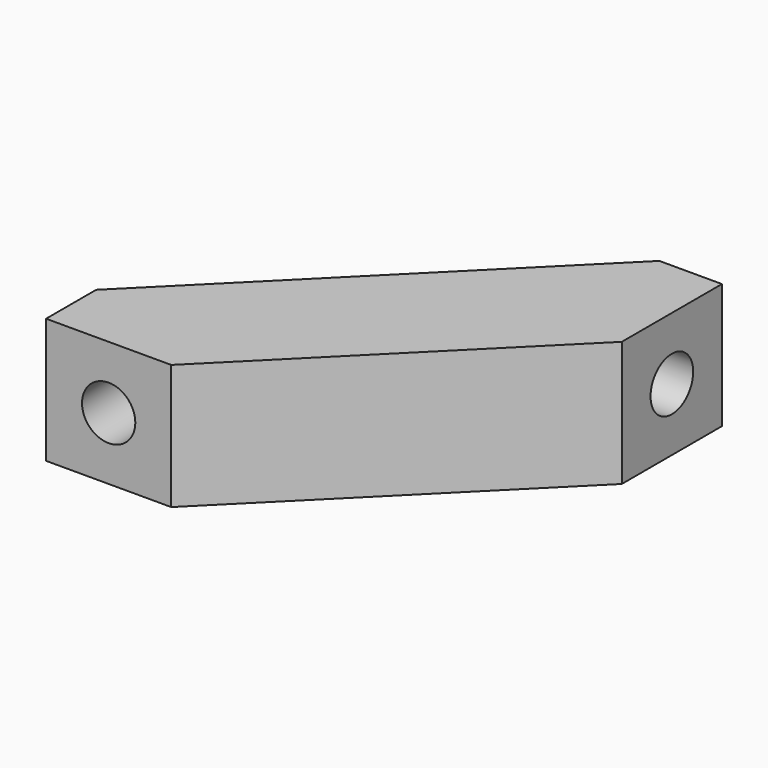
from build123d import *

# Parameters (mm, degrees)
F1_DEPTH = 6.35
F2_R     = 1.35255
F3_DEPTH = 3.175
F4_R     = 1.35255
F5_DEPTH = 3.175


with BuildPart() as f1:
    # F0 (on Top) → F1 (new body)
    with BuildSketch(Plane.XY):
        Polygon((-19.05, 0), (-12.7, 0), (0, 12.7), (0, 19.05), (-3.175, 19.05), (-19.05, 3.175), align=None)
    extrude(amount=F1_DEPTH)

    # F2 (on face) → F3 (cut)
    with BuildSketch(Plane.YZ):
        with Locations((15.875, 3.175)):
            Circle(F2_R)
    extrude(amount=-F3_DEPTH, mode=Mode.SUBTRACT)

    # F4 (on face) → F5 (cut)
    with BuildSketch(Plane.XZ):
        with Locations((-15.875, 3.175)):
            Circle(F4_R)
    extrude(amount=-F5_DEPTH, mode=Mode.SUBTRACT)


solid = f1.part
